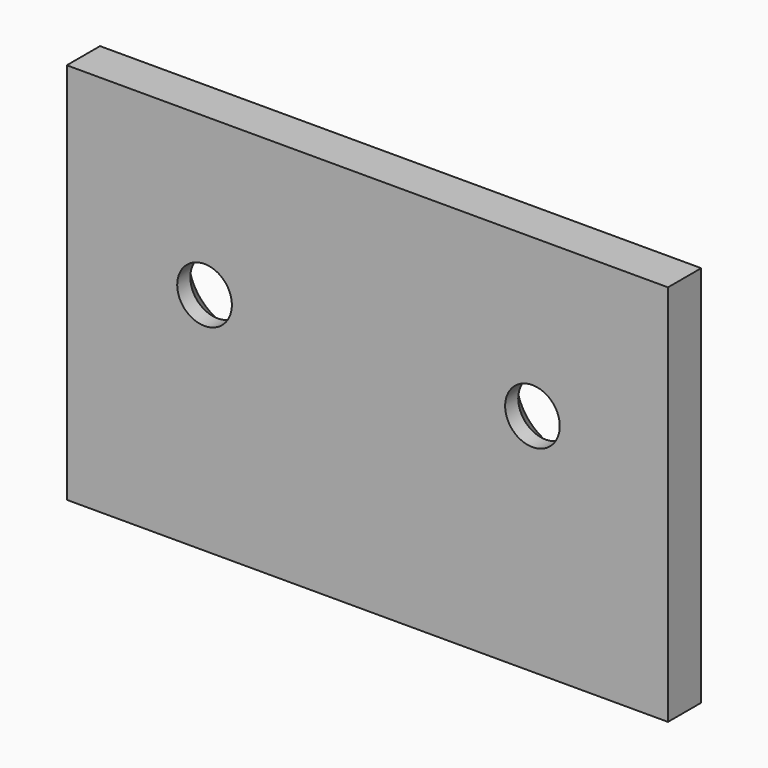
from build123d import *

# Parameters (mm, degrees)
F0_W           = 69.85
F0_H           = 44.45
F1_DEPTH       = 4.826
F2_D           = 6.35
F2_CSINK_D     = 11.43
F2_CSINK_ANGLE = 82


with BuildPart() as f1:
    # F0 (on Front) → F1 (new body)
    with BuildSketch(Plane.XZ):
        with Locations((-0.127, 0)):
            Rectangle(F0_W, F0_H)
    extrude(amount=F1_DEPTH)

    # F2 (through all)
    with Locations(Plane(origin=(0, 0, 0), x_dir=(1, 0, 0), z_dir=(0, 1, 0))):
        with Locations((-19.05, -3.937), (19.05, -3.937)):
            CounterSinkHole(F2_D / 2, F2_CSINK_D / 2, counter_sink_angle=F2_CSINK_ANGLE)


solid = f1.part
